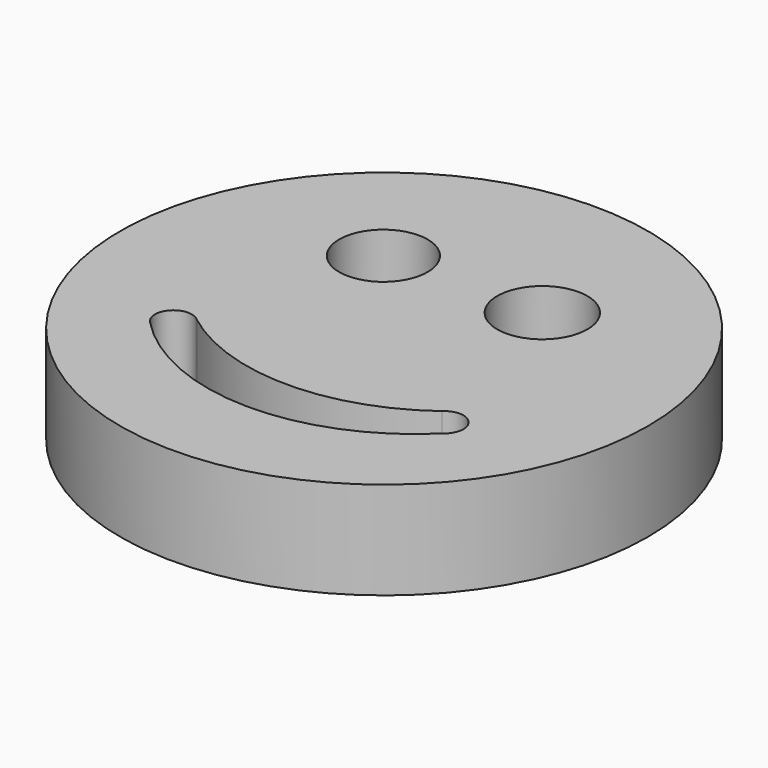
from build123d import *

# Parameters (mm, degrees)
F0_R     = 68.746685
F0_R_2   = 11.512812
F0_R_3   = 11.746204
F1_DEPTH = 25.4


with BuildPart() as f1:
    # F0 (on Top) → F1 (new body)
    with BuildSketch(Plane.XY):
        Circle(F0_R)
        with BuildLine():
            ThreePointArc((38.200267, -28.575001), (-0.489346, -44.214171), (-38.801841, -27.672632))
            ThreePointArc((-38.801841, -27.672632), (-38.972847, -20.885155), (-32.184474, -20.754473))
            ThreePointArc((-32.184474, -20.754473), (-0.200583, -31.594777), (31.883683, -21.055264))
            ThreePointArc((31.883683, -21.055264), (39.13117, -21.380206), (38.200267, -28.575001))
        make_face(mode=Mode.SUBTRACT)
        with Locations((-20.152895, 24.965527)):
            Circle(F0_R_2, mode=Mode.SUBTRACT)
        with Locations((20.754473, 25.567105)):
            Circle(F0_R_3, mode=Mode.SUBTRACT)
    extrude(amount=F1_DEPTH)


solid = f1.part
